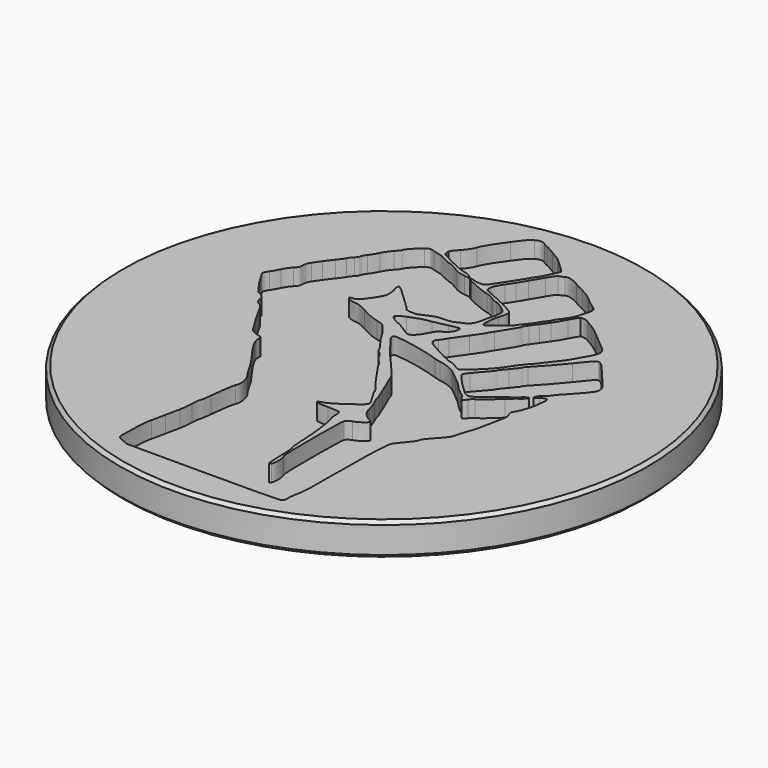
from build123d import *

# Parameters (mm, degrees)
POCKET_DEPTH = 1.25


with BuildPart() as part:
    # Sketch (on DatumPlane) → Revolution (revolve)
    with BuildSketch(Plane.YZ):
        Polygon((0, 0), (0, -2.5), (19.75, -2.5), (20, -2.25), (20, -0.25), (19.75, 0), align=None)
    revolve(axis=Axis((0, 0, 0), (0, 0, 1)))

    # Sketch005 → Pocket (cut)
    with BuildSketch(Plane.XY):
        with BuildLine():
            add(Edge.make_bspline(
                [(-5.984435, -17.202943), (-6.199878, -17.109928), (-6.410944, -16.999036), (-6.453489, -16.956512)],
                knots=[0, 0, 0, 0, 1, 1, 1, 1], degree=3))
            add(Edge.make_bspline(
                [(-6.453489, -16.956512), (-6.578088, -16.831912), (-6.497562, -14.676735), (-6.346851, -14.102441)],
                knots=[0, 0, 0, 0, 1, 1, 1, 1], degree=3))
            add(Edge.make_bspline(
                [(-6.346851, -14.102441), (-6.27701, -13.8363), (-6.171854, -13.350559), (-6.11318, -13.022983)],
                knots=[0, 0, 0, 0, 1, 1, 1, 1], degree=3))
            add(Edge.make_bspline(
                [(-6.11318, -13.022983), (-6.054506, -12.695425), (-5.955975, -12.209675), (-5.894227, -11.943526)],
                knots=[0, 0, 0, 0, 1, 1, 1, 1], degree=3))
            add(Edge.make_bspline(
                [(-5.894227, -11.943526), (-5.83248, -11.677384), (-5.781261, -11.23131), (-5.780406, -10.952248)],
                knots=[0, 0, 0, 0, 1, 1, 1, 1], degree=3))
            add(Edge.make_bspline(
                [(-5.780406, -10.952248), (-5.779551, -10.673178), (-5.746247, -10.383923), (-5.706394, -10.309459)],
                knots=[0, 0, 0, 0, 1, 1, 1, 1], degree=3))
            add(Edge.make_bspline(
                [(-5.706394, -10.309459), (-5.666541, -10.234995), (-5.601014, -9.843581), (-5.560776, -9.439636)],
                knots=[0, 0, 0, 0, 1, 1, 1, 1], degree=3))
            add(Edge.make_bspline(
                [(-5.560776, -9.439636), (-5.455404, -8.381726), (-5.338289, -7.627346), (-5.255375, -7.472448)],
                knots=[0, 0, 0, 0, 1, 1, 1, 1], degree=3))
            add(Edge.make_bspline(
                [(-5.255375, -7.472448), (-5.068748, -7.123736), (-5.249017, -6.309721), (-5.602068, -5.906919)],
                knots=[0, 0, 0, 0, 1, 1, 1, 1], degree=3))
            add(Edge.make_bspline(
                [(-5.602068, -5.906919), (-5.659074, -5.841883), (-5.797546, -5.619078), (-5.909785, -5.411789)],
                knots=[0, 0, 0, 0, 1, 1, 1, 1], degree=3))
            add(Edge.make_bspline(
                [(-5.909785, -5.411789), (-6.195818, -4.883553), (-6.519215, -4.379998), (-6.802044, -4.022578)],
                knots=[0, 0, 0, 0, 1, 1, 1, 1], degree=3))
            add(Edge.make_bspline(
                [(-6.802044, -4.022578), (-7.19475, -3.526262), (-7.711195, -2.723707), (-7.827696, -2.428643)],
                knots=[0, 0, 0, 0, 1, 1, 1, 1], degree=3))
            add(Edge.make_bspline(
                [(-7.827696, -2.428643), (-7.887348, -2.27759), (-7.928137, -2.055716), (-7.918336, -1.935587)],
                knots=[0, 0, 0, 0, 1, 1, 1, 1], degree=3))
            add(Edge.make_bspline(
                [(-7.918336, -1.935587), (-7.903011, -1.747729), (-7.931763, -1.71023), (-8.123852, -1.667541)],
                knots=[0, 0, 0, 0, 1, 1, 1, 1], degree=3))
            add(Edge.make_bspline(
                [(-8.123852, -1.667541), (-8.610982, -1.55929), (-8.878952, -1.392552), (-9.010185, -1.116065)],
                knots=[0, 0, 0, 0, 1, 1, 1, 1], degree=3))
            add(Edge.make_bspline(
                [(-9.010185, -1.116065), (-9.081847, -0.965045), (-9.246748, -0.691292), (-9.376627, -0.507735)],
                knots=[0, 0, 0, 0, 1, 1, 1, 1], degree=3))
            add(Edge.make_bspline(
                [(-9.376627, -0.507735), (-9.506509, -0.324165), (-9.797788, 0.184458), (-10.023903, 0.622481)],
                knots=[0, 0, 0, 0, 1, 1, 1, 1], degree=3))
            add(Edge.make_bspline(
                [(-10.023903, 0.622481), (-10.309281, 1.175312), (-10.494227, 1.447303), (-10.62855, 1.511692)],
                knots=[0, 0, 0, 0, 1, 1, 1, 1], degree=3))
            add(Edge.make_bspline(
                [(-10.62855, 1.511692), (-10.899119, 1.641372), (-11.007759, 1.792976), (-11.058615, 2.111852)],
                knots=[0, 0, 0, 0, 1, 1, 1, 1], degree=3))
            add(Edge.make_bspline(
                [(-11.058615, 2.111852), (-11.092838, 2.326406), (-11.1556, 2.41368), (-11.343154, 2.50755)],
                knots=[0, 0, 0, 0, 1, 1, 1, 1], degree=3))
            add(Edge.make_bspline(
                [(-11.343154, 2.50755), (-11.4755, 2.573785), (-11.632798, 2.668654), (-11.692704, 2.718374)],
                knots=[0, 0, 0, 0, 1, 1, 1, 1], degree=3))
            add(Edge.make_bspline(
                [(-11.692704, 2.718374), (-11.907787, 2.896877), (-13, 4.590735), (-13, 4.74576)],
                knots=[0, 0, 0, 0, 1, 1, 1, 1], degree=3))
            add(Edge.make_bspline(
                [(-13, 4.74576), (-13, 4.832899), (-12.914173, 5.016723), (-12.809271, 5.154251)],
                knots=[0, 0, 0, 0, 1, 1, 1, 1], degree=3))
            add(Edge.make_bspline(
                [(-12.809271, 5.154251), (-12.704369, 5.291784), (-12.537864, 5.580548), (-12.439253, 5.79594)],
                knots=[0, 0, 0, 0, 1, 1, 1, 1], degree=3))
            add(Edge.make_bspline(
                [(-12.439253, 5.79594), (-12.340641, 6.011332), (-12.141717, 6.302162), (-11.997208, 6.442243)],
                knots=[0, 0, 0, 0, 1, 1, 1, 1], degree=3))
            add(Edge.make_bspline(
                [(-11.997208, 6.442243), (-11.779488, 6.653266), (-11.734441, 6.749964), (-11.734441, 7.006335)],
                knots=[0, 0, 0, 0, 1, 1, 1, 1], degree=3))
            add(Edge.make_bspline(
                [(-11.734441, 7.006335), (-11.734441, 7.215495), (-11.675627, 7.397672), (-11.55289, 7.568691)],
                knots=[0, 0, 0, 0, 1, 1, 1, 1], degree=3))
            add(Edge.make_bspline(
                [(-11.55289, 7.568691), (-11.453038, 7.707815), (-11.27716, 7.96789), (-11.162052, 8.146625)],
                knots=[0, 0, 0, 0, 1, 1, 1, 1], degree=3))
            add(Edge.make_bspline(
                [(-11.162052, 8.146625), (-11.046943, 8.325369), (-10.831623, 8.610133), (-10.683558, 8.779424)],
                knots=[0, 0, 0, 0, 1, 1, 1, 1], degree=3))
            add(Edge.make_bspline(
                [(-10.683558, 8.779424), (-10.535497, 8.948711), (-10.362803, 9.18772), (-10.299794, 9.310538)],
                knots=[0, 0, 0, 0, 1, 1, 1, 1], degree=3))
            add(Edge.make_bspline(
                [(-10.299794, 9.310538), (-10.236785, 9.433372), (-10.0983, 9.615088), (-9.992047, 9.714351)],
                knots=[0, 0, 0, 0, 1, 1, 1, 1], degree=3))
            add(Edge.make_bspline(
                [(-9.992047, 9.714351), (-9.885795, 9.813614), (-9.798863, 9.951384), (-9.798863, 10.020506)],
                knots=[0, 0, 0, 0, 1, 1, 1, 1], degree=3))
            add(Edge.make_bspline(
                [(-9.798863, 10.020506), (-9.798863, 10.089628), (-9.698991, 10.271856), (-9.576922, 10.425462)],
                knots=[0, 0, 0, 0, 1, 1, 1, 1], degree=3))
            add(Edge.make_bspline(
                [(-9.576922, 10.425462), (-9.454854, 10.579065), (-9.272952, 10.87682), (-9.17269, 11.08709)],
                knots=[0, 0, 0, 0, 1, 1, 1, 1], degree=3))
            add(Edge.make_bspline(
                [(-9.17269, 11.08709), (-9.072432, 11.297385), (-8.854055, 11.614648), (-8.687423, 11.792067)],
                knots=[0, 0, 0, 0, 1, 1, 1, 1], degree=3))
            add(Edge.make_bspline(
                [(-8.687423, 11.792067), (-8.520774, 11.969516), (-8.384426, 12.142384), (-8.384426, 12.176221)],
                knots=[0, 0, 0, 0, 1, 1, 1, 1], degree=3))
            add(Edge.make_bspline(
                [(-8.384426, 12.176221), (-8.384426, 12.30891), (-7.768984, 13.006631), (-7.487764, 13.192686)],
                knots=[0, 0, 0, 0, 1, 1, 1, 1], degree=3))
            add(Edge.make_bspline(
                [(-7.487764, 13.192686), (-7.191084, 13.38902), (-7.189585, 13.389185), (-6.811108, 13.266943)],
                knots=[0, 0, 0, 0, 1, 1, 1, 1], degree=3))
            add(Edge.make_bspline(
                [(-6.811108, 13.266943), (-6.602472, 13.199561), (-6.379774, 13.144431), (-6.316231, 13.144431)],
                knots=[0, 0, 0, 0, 1, 1, 1, 1], degree=3))
            add(Edge.make_bspline(
                [(-6.316231, 13.144431), (-6.252681, 13.144431), (-5.987369, 13.02718), (-5.726655, 12.883873)],
                knots=[0, 0, 0, 0, 1, 1, 1, 1], degree=3))
            add(Edge.make_bspline(
                [(-5.726655, 12.883873), (-5.465941, 12.740566), (-5.200325, 12.623316), (-5.136401, 12.623316)],
                knots=[0, 0, 0, 0, 1, 1, 1, 1], degree=3))
            add(Edge.make_bspline(
                [(-5.136401, 12.623316), (-5.016708, 12.623316), (-4.79674, 12.51476), (-4.215524, 12.168867)],
                knots=[0, 0, 0, 0, 1, 1, 1, 1], degree=3))
            add(Edge.make_bspline(
                [(-4.215524, 12.168867), (-4.003036, 12.042409), (-3.717176, 11.952019), (-3.433839, 11.921709)],
                knots=[0, 0, 0, 0, 1, 1, 1, 1], degree=3))
            add(Edge.make_bspline(
                [(-3.433839, 11.921709), (-2.98718, 11.873918)],
                knots=[0, 0, 10.611221, 10.611221], degree=1))
            add(Edge.make_bspline(
                [(-2.98718, 11.873918), (-3.183417, 12.051634)],
                knots=[0, 0, 6.253884, 6.253884], degree=1))
            add(Edge.make_bspline(
                [(-3.183417, 12.051634), (-3.291345, 12.149377), (-3.519437, 12.251701), (-3.690274, 12.279023)],
                knots=[0, 0, 0, 0, 1, 1, 1, 1], degree=3))
            add(Edge.make_bspline(
                [(-3.690274, 12.279023), (-3.861122, 12.306342), (-4.187902, 12.428485), (-4.41646, 12.550452)],
                knots=[0, 0, 0, 0, 1, 1, 1, 1], degree=3))
            add(Edge.make_bspline(
                [(-4.41646, 12.550452), (-4.645021, 12.672418), (-4.876919, 12.772211), (-4.931783, 12.772211)],
                knots=[0, 0, 0, 0, 1, 1, 1, 1], degree=3))
            add(Edge.make_bspline(
                [(-4.931783, 12.772211), (-4.986643, 12.772211), (-5.21482, 12.889461), (-5.438852, 13.032768)],
                knots=[0, 0, 0, 0, 1, 1, 1, 1], degree=3))
            add(Edge.make_bspline(
                [(-5.438852, 13.032768), (-5.662876, 13.176075), (-5.880092, 13.293325), (-5.921579, 13.293325)],
                knots=[0, 0, 0, 0, 1, 1, 1, 1], degree=3))
            add(Edge.make_bspline(
                [(-5.921579, 13.293325), (-6.043135, 13.293325), (-6.167358, 13.590675), (-6.121739, 13.772454)],
                knots=[0, 0, 0, 0, 1, 1, 1, 1], degree=3))
            add(Edge.make_bspline(
                [(-6.121739, 13.772454), (-6.098623, 13.864559), (-5.89849, 14.131555), (-5.676985, 14.365798)],
                knots=[0, 0, 0, 0, 1, 1, 1, 1], degree=3))
            add(Edge.make_bspline(
                [(-5.676985, 14.365798), (-5.408406, 14.649821), (-5.222833, 14.932684), (-5.119879, 15.215005)],
                knots=[0, 0, 0, 0, 1, 1, 1, 1], degree=3))
            add(Edge.make_bspline(
                [(-5.119879, 15.215005), (-4.966746, 15.634884), (-4.764905, 15.963881), (-4.010026, 17.023993)],
                knots=[0, 0, 0, 0, 1, 1, 1, 1], degree=3))
            add(Edge.make_bspline(
                [(-4.010026, 17.023993), (-3.535808, 17.689938), (-3.353605, 17.89081), (-3.061632, 18.069499)],
                knots=[0, 0, 0, 0, 1, 1, 1, 1], degree=3))
            add(Edge.make_bspline(
                [(-3.061632, 18.069499), (-2.776166, 18.244196), (-2.49627, 18.243692), (-2.271396, 18.068077)],
                knots=[0, 0, 0, 0, 1, 1, 1, 1], degree=3))
            add(Edge.make_bspline(
                [(-2.271396, 18.068077), (-2.17375, 17.991817), (-2.01218, 17.903815), (-1.912358, 17.872505)],
                knots=[0, 0, 0, 0, 1, 1, 1, 1], degree=3))
            add(Edge.make_bspline(
                [(-1.912358, 17.872505), (-1.812536, 17.841198), (-1.502313, 17.669089), (-1.22296, 17.49004)],
                knots=[0, 0, 0, 0, 1, 1, 1, 1], degree=3))
            add(Edge.make_bspline(
                [(-1.22296, 17.49004), (-0.943623, 17.310992), (-0.688671, 17.164497), (-0.656371, 17.164497)],
                knots=[0, 0, 0, 0, 1, 1, 1, 1], degree=3))
            add(Edge.make_bspline(
                [(-0.656371, 17.164497), (-0.624093, 17.164497), (-0.463542, 17.038869), (-0.299598, 16.885326)],
                knots=[0, 0, 0, 0, 1, 1, 1, 1], degree=3))
            add(Edge.make_bspline(
                [(-0.299598, 16.885326), (-0.135649, 16.731783), (0.155866, 16.46195), (0.348187, 16.285674)],
                knots=[0, 0, 0, 0, 1, 1, 1, 1], degree=3))
            add(Edge.make_bspline(
                [(0.348187, 16.285674), (0.54052, 16.109402), (0.697881, 15.936864), (0.697881, 15.902248)],
                knots=[0, 0, 0, 0, 1, 1, 1, 1], degree=3))
            add(Edge.make_bspline(
                [(0.697881, 15.902248), (0.697881, 15.781954), (0.116983, 14.576749), (0.034391, 14.525738)],
                knots=[0, 0, 0, 0, 1, 1, 1, 1], degree=3))
            add(Edge.make_bspline(
                [(0.034391, 14.525738), (-0.011312, 14.497492), (-0.119482, 14.334281), (-0.205995, 14.163043)],
                knots=[0, 0, 0, 0, 1, 1, 1, 1], degree=3))
            add(Edge.make_bspline(
                [(-0.205995, 14.163043), (-0.292503, 13.991804), (-0.585153, 13.521185), (-0.856319, 13.117198)],
                knots=[0, 0, 0, 0, 1, 1, 1, 1], degree=3))
            add(Edge.make_bspline(
                [(-0.856319, 13.117198), (-1.12749, 12.713219), (-1.421088, 12.265197), (-1.508761, 12.121602)],
                knots=[0, 0, 0, 0, 1, 1, 1, 1], degree=3))
            add(Edge.make_bspline(
                [(-1.508761, 12.121602), (-1.596425, 11.977999), (-1.713675, 11.831661), (-1.769318, 11.796406)],
                knots=[0, 0, 0, 0, 1, 1, 1, 1], degree=3))
            add(Edge.make_bspline(
                [(-1.769318, 11.796406), (-1.926222, 11.696991), (-2.406223, 11.718581), (-2.691761, 11.837894)],
                knots=[0, 0, 0, 0, 1, 1, 1, 1], degree=3))
            add(Edge.make_bspline(
                [(-2.691761, 11.837894), (-3.017652, 11.97406), (-3.028036, 11.864821), (-2.707982, 11.667295)],
                knots=[0, 0, 0, 0, 1, 1, 1, 1], degree=3))
            add(Edge.make_bspline(
                [(-2.707982, 11.667295), (-2.387218, 11.469332), (-1.267929, 11.021331), (-0.93993, 10.959651)],
                knots=[0, 0, 0, 0, 1, 1, 1, 1], degree=3))
            add(Edge.make_bspline(
                [(-0.93993, 10.959651), (-0.796623, 10.932691), (-0.528619, 10.810393), (-0.344385, 10.687871)],
                knots=[0, 0, 0, 0, 1, 1, 1, 1], degree=3))
            add(Edge.make_bspline(
                [(-0.344385, 10.687871), (-0.160133, 10.565355), (0.059704, 10.464969), (0.144142, 10.464792)],
                knots=[0, 0, 0, 0, 1, 1, 1, 1], degree=3))
            add(Edge.make_bspline(
                [(0.144142, 10.464792), (0.22858, 10.464622), (0.504958, 10.310432), (0.758314, 10.122163)],
                knots=[0, 0, 0, 0, 1, 1, 1, 1], degree=3))
            add(Edge.make_bspline(
                [(0.758314, 10.122163), (1.215133, 9.782704), (1.218943, 9.776765), (1.218943, 9.410031)],
                knots=[0, 0, 0, 0, 1, 1, 1, 1], degree=3))
            add(Edge.make_bspline(
                [(1.218943, 9.410031), (1.218943, 9.206637), (1.182408, 8.971966), (1.137756, 8.888527)],
                knots=[0, 0, 0, 0, 1, 1, 1, 1], degree=3))
            add(Edge.make_bspline(
                [(1.137756, 8.888527), (1.093104, 8.805088), (1.029061, 8.542211), (0.995436, 8.304327)],
                knots=[0, 0, 0, 0, 1, 1, 1, 1], degree=3))
            add(Edge.make_bspline(
                [(0.995436, 8.304327), (0.901037, 7.636519), (0.733113, 7.350218), (0.33258, 7.174366)],
                knots=[0, 0, 0, 0, 1, 1, 1, 1], degree=3))
            add(Edge.make_bspline(
                [(0.33258, 7.174366), (0.144485, 7.091769), (-0.104257, 6.977495), (-0.220166, 6.920421)],
                knots=[0, 0, 0, 0, 1, 1, 1, 1], degree=3))
            add(Edge.make_bspline(
                [(-0.220166, 6.920421), (-0.338631, 6.86209), (-0.655776, 6.816649), (-0.944362, 6.816649)],
                knots=[0, 0, 0, 0, 1, 1, 1, 1], degree=3))
            add(Edge.make_bspline(
                [(-0.944362, 6.816649), (-1.378448, 6.816649), (-1.546469, 6.775136), (-2.031567, 6.548019)],
                knots=[0, 0, 0, 0, 1, 1, 1, 1], degree=3))
            add(Edge.make_bspline(
                [(-2.031567, 6.548019), (-2.52657, 6.316265), (-2.660894, 6.283994), (-3.010059, 6.31295)],
                knots=[0, 0, 0, 0, 1, 1, 1, 1], degree=3))
            add(Edge.make_bspline(
                [(-3.010059, 6.31295), (-3.308509, 6.3377), (-3.43534, 6.383808), (-3.493083, 6.488523)],
                knots=[0, 0, 0, 0, 1, 1, 1, 1], degree=3))
            add(Edge.make_bspline(
                [(-3.493083, 6.488523), (-3.536144, 6.566628), (-3.670277, 6.714287), (-3.791156, 6.816649)],
                knots=[0, 0, 0, 0, 1, 1, 1, 1], degree=3))
            add(Edge.make_bspline(
                [(-3.791156, 6.816649), (-3.912039, 6.919011), (-4.346104, 7.330745), (-4.755721, 7.731557)],
                knots=[0, 0, 0, 0, 1, 1, 1, 1], degree=3))
            add(Edge.make_bspline(
                [(-4.755721, 7.731557), (-5.165347, 8.132403), (-5.537999, 8.447752), (-5.583846, 8.432301)],
                knots=[0, 0, 0, 0, 1, 1, 1, 1], degree=3))
            add(Edge.make_bspline(
                [(-5.583846, 8.432301), (-5.675438, 8.401449), (-5.653535, 8.043143), (-5.547953, 7.84518)],
                knots=[0, 0, 0, 0, 1, 1, 1, 1], degree=3))
            add(Edge.make_bspline(
                [(-5.547953, 7.84518), (-5.511176, 7.776219), (-5.481087, 7.559421), (-5.481087, 7.363426)],
                knots=[0, 0, 0, 0, 1, 1, 1, 1], degree=3))
            add(Edge.make_bspline(
                [(-5.481087, 7.363426), (-5.481087, 7.054046), (-5.537547, 6.92189), (-5.909162, 6.361439)],
                knots=[0, 0, 0, 0, 1, 1, 1, 1], degree=3))
            add(Edge.make_bspline(
                [(-5.909162, 6.361439), (-6.325709, 5.733212), (-6.530446, 5.551094), (-6.820217, 5.551094)],
                knots=[0, 0, 0, 0, 1, 1, 1, 1], degree=3))
            add(Edge.make_bspline(
                [(-6.820217, 5.551094), (-6.897764, 5.551094), (-6.98235, 5.516892), (-7.008186, 5.475089)],
                knots=[0, 0, 0, 0, 1, 1, 1, 1], degree=3))
            add(Edge.make_bspline(
                [(-7.008186, 5.475089), (-7.072211, 5.371495), (-6.588582, 5.17887), (-6.264474, 5.17887)],
                knots=[0, 0, 0, 0, 1, 1, 1, 1], degree=3))
            add(Edge.make_bspline(
                [(-6.264474, 5.17887), (-6.090979, 5.17887), (-5.778318, 5.058029), (-5.350116, 4.825497)],
                knots=[0, 0, 0, 0, 1, 1, 1, 1], degree=3))
            add(Edge.make_bspline(
                [(-5.350116, 4.825497), (-4.651193, 4.445936), (-4.34889, 4.316269), (-3.880514, 4.19528)],
                knots=[0, 0, 0, 0, 1, 1, 1, 1], degree=3))
            add(Edge.make_bspline(
                [(-3.880514, 4.19528), (-3.716735, 4.152964), (-3.511859, 4.091729), (-3.425219, 4.059204)],
                knots=[0, 0, 0, 0, 1, 1, 1, 1], degree=3))
            add(Edge.make_bspline(
                [(-3.425219, 4.059204), (-3.246353, 3.992042), (-2.660637, 3.251018), (-2.431656, 2.8022)],
                knots=[0, 0, 0, 0, 1, 1, 1, 1], degree=3))
            add(Edge.make_bspline(
                [(-2.431656, 2.8022), (-2.347696, 2.637625), (-2.186114, 2.393163), (-2.072593, 2.258937)],
                knots=[0, 0, 0, 0, 1, 1, 1, 1], degree=3))
            add(Edge.make_bspline(
                [(-2.072593, 2.258937), (-1.785391, 1.919406), (-1.461004, 1.427171), (-1.461004, 1.330863)],
                knots=[0, 0, 0, 0, 1, 1, 1, 1], degree=3))
            add(Edge.make_bspline(
                [(-1.461004, 1.330863), (-1.461004, 1.286591), (-1.377683, 1.195777), (-1.275846, 1.129052)],
                knots=[0, 0, 0, 0, 1, 1, 1, 1], degree=3))
            add(Edge.make_bspline(
                [(-1.275846, 1.129052), (-1.174009, 1.062326), (-1.026194, 0.882595), (-0.947365, 0.729653)],
                knots=[0, 0, 0, 0, 1, 1, 1, 1], degree=3))
            add(Edge.make_bspline(
                [(-0.947365, 0.729653), (-0.868536, 0.576707), (-0.683853, 0.336123), (-0.53696, 0.195026)],
                knots=[0, 0, 0, 0, 1, 1, 1, 1], degree=3))
            add(Edge.make_bspline(
                [(-0.53696, 0.195026), (-0.390063, 0.053925), (-0.269879, -0.099809), (-0.269879, -0.1466)],
                knots=[0, 0, 0, 0, 1, 1, 1, 1], degree=3))
            add(Edge.make_bspline(
                [(-0.269879, -0.1466), (-0.269879, -0.193391), (-0.18473, -0.345948), (-0.080658, -0.48561)],
                knots=[0, 0, 0, 0, 1, 1, 1, 1], degree=3))
            add(Edge.make_bspline(
                [(-0.080658, -0.48561), (0.023415, -0.625276), (0.24224, -0.940566), (0.405625, -1.186226)],
                knots=[0, 0, 0, 0, 1, 1, 1, 1], degree=3))
            add(Edge.make_bspline(
                [(0.405625, -1.186226), (0.857026, -1.864956), (1.19764, -2.333332), (1.443385, -2.61324)],
                knots=[0, 0, 0, 0, 1, 1, 1, 1], degree=3))
            add(Edge.make_bspline(
                [(1.443385, -2.61324), (1.565652, -2.752496), (1.665686, -2.91084), (1.665686, -2.965119)],
                knots=[0, 0, 0, 0, 1, 1, 1, 1], degree=3))
            add(Edge.make_bspline(
                [(1.665686, -2.965119), (1.665686, -3.019399), (1.754492, -3.194109), (1.863039, -3.353367)],
                knots=[0, 0, 0, 0, 1, 1, 1, 1], degree=3))
            add(Edge.make_bspline(
                [(1.863039, -3.353367), (2.096127, -3.695357), (2.410155, -4.272339), (2.410155, -4.358656)],
                knots=[0, 0, 0, 0, 1, 1, 1, 1], degree=3))
            add(Edge.make_bspline(
                [(2.410155, -4.358656), (2.410155, -4.467284), (1.950966, -4.945735), (1.846699, -4.945735)],
                knots=[0, 0, 0, 0, 1, 1, 1, 1], degree=3))
            add(Edge.make_bspline(
                [(1.846699, -4.945735), (1.79095, -4.945735), (1.63529, -5.04096), (1.500797, -5.157343)],
                knots=[0, 0, 0, 0, 1, 1, 1, 1], degree=3))
            add(Edge.make_bspline(
                [(1.500797, -5.157343), (1.102551, -5.501961), (0.433193, -5.898895), (0.098125, -5.989108)],
                knots=[0, 0, 0, 0, 1, 1, 1, 1], degree=3))
            add(Edge.make_bspline(
                [(0.098125, -5.989108), (-0.437942, -6.13346), (-0.14826, -6.248264), (0.757593, -6.250453)],
                knots=[0, 0, 0, 0, 1, 1, 1, 1], degree=3))
            add(Edge.make_bspline(
                [(0.757593, -6.250453), (1.195659, -6.251511), (1.59592, -6.278612), (1.647101, -6.31068)],
                knots=[0, 0, 0, 0, 1, 1, 1, 1], degree=3))
            add(Edge.make_bspline(
                [(1.647101, -6.31068), (1.701389, -6.344697), (1.740158, -6.524256), (1.740158, -6.741718)],
                knots=[0, 0, 0, 0, 1, 1, 1, 1], degree=3))
            add(Edge.make_bspline(
                [(1.740158, -6.741718), (1.740158, -6.946717), (1.771852, -7.173645), (1.810588, -7.246035)],
                knots=[0, 0, 0, 0, 1, 1, 1, 1], degree=3))
            add(Edge.make_bspline(
                [(1.810588, -7.246035), (1.992791, -7.586484), (2.236716, -9.567299), (2.265291, -10.93856)],
                knots=[0, 0, 0, 0, 1, 1, 1, 1], degree=3))
            add(Edge.make_bspline(
                [(2.265291, -10.93856), (2.272117, -11.266119), (2.315879, -11.581138), (2.362539, -11.638626)],
                knots=[0, 0, 0, 0, 1, 1, 1, 1], degree=3))
            add(Edge.make_bspline(
                [(2.362539, -11.638626), (2.41604, -11.704523), (2.449483, -12.116951), (2.453094, -12.755295)],
                knots=[0, 0, 0, 0, 1, 1, 1, 1], degree=3))
            add(Edge.make_bspline(
                [(2.453094, -12.755295), (2.456244, -13.311978), (2.485612, -13.849104), (2.518363, -13.948883)],
                knots=[0, 0, 0, 0, 1, 1, 1, 1], degree=3))
            add(Edge.make_bspline(
                [(2.518363, -13.948883), (2.575391, -14.122628), (2.582232, -14.124389), (2.68014, -13.990489)],
                knots=[0, 0, 0, 0, 1, 1, 1, 1], degree=3))
            add(Edge.make_bspline(
                [(2.68014, -13.990489), (2.81545, -13.805441), (2.810358, -13.196866), (2.670707, -12.862644)],
                knots=[0, 0, 0, 0, 1, 1, 1, 1], degree=3))
            add(Edge.make_bspline(
                [(2.670707, -12.862644), (2.578496, -12.641956), (2.55904, -12.130574), (2.55904, -9.92797)],
                knots=[0, 0, 0, 0, 1, 1, 1, 1], degree=3))
            add(Edge.make_bspline(
                [(2.55904, -9.92797), (2.55904, -8.090788), (2.585439, -7.202593), (2.643855, -7.074407)],
                knots=[0, 0, 0, 0, 1, 1, 1, 1], degree=3))
            add(Edge.make_bspline(
                [(2.643855, -7.074407), (2.698592, -6.954278), (2.843194, -6.849232), (3.051571, -6.778231)],
                knots=[0, 0, 0, 0, 1, 1, 1, 1], degree=3))
            add(Edge.make_bspline(
                [(3.051571, -6.778231), (3.431644, -6.648729), (3.899042, -6.311209), (3.899042, -6.16626)],
                knots=[0, 0, 0, 0, 1, 1, 1, 1], degree=3))
            add(Edge.make_bspline(
                [(3.899042, -6.16626), (3.899042, -6.110253), (3.790165, -6.017721), (3.657095, -5.960639)],
                knots=[0, 0, 0, 0, 1, 1, 1, 1], degree=3))
            add(Edge.make_bspline(
                [(3.657095, -5.960639), (3.235281, -5.779689), (2.926125, -5.382069), (2.807295, -4.867634)],
                knots=[0, 0, 0, 0, 1, 1, 1, 1], degree=3))
            add(Edge.make_bspline(
                [(2.807295, -4.867634), (2.748477, -4.613037), (2.618307, -4.242837), (2.518032, -4.044928)],
                knots=[0, 0, 0, 0, 1, 1, 1, 1], degree=3))
            add(Edge.make_bspline(
                [(2.518032, -4.044928), (2.417752, -3.847037), (2.335706, -3.636479), (2.335706, -3.577018)],
                knots=[0, 0, 0, 0, 1, 1, 1, 1], degree=3))
            add(Edge.make_bspline(
                [(2.335706, -3.577018), (2.335706, -3.517557), (2.288619, -3.374068), (2.231067, -3.258151)],
                knots=[0, 0, 0, 0, 1, 1, 1, 1], degree=3))
            add(Edge.make_bspline(
                [(2.231067, -3.258151), (2.173514, -3.142234), (2.054909, -2.846391), (1.967491, -2.600714)],
                knots=[0, 0, 0, 0, 1, 1, 1, 1], degree=3))
            add(Edge.make_bspline(
                [(1.967491, -2.600714), (1.880077, -2.355045), (1.711218, -1.953056), (1.592244, -1.707354)],
                knots=[0, 0, 0, 0, 1, 1, 1, 1], degree=3))
            add(Edge.make_bspline(
                [(1.592244, -1.707354), (1.473275, -1.461685), (1.355304, -1.174758), (1.330091, -1.069729)],
                knots=[0, 0, 0, 0, 1, 1, 1, 1], degree=3))
            add(Edge.make_bspline(
                [(1.330091, -1.069729), (1.276712, -0.847407), (0.967539, -0.445016), (0.13955, 0.479798)],
                knots=[0, 0, 0, 0, 1, 1, 1, 1], degree=3))
            add(Edge.make_bspline(
                [(0.13955, 0.479798), (-0.658687, 1.371423), (-1.012636, 1.799751), (-1.249068, 2.160347)],
                knots=[0, 0, 0, 0, 1, 1, 1, 1], degree=3))
            add(Edge.make_bspline(
                [(-1.249068, 2.160347), (-1.357704, 2.326022), (-1.550248, 2.578824), (-1.676973, 2.722152)],
                knots=[0, 0, 0, 0, 1, 1, 1, 1], degree=3))
            add(Edge.make_bspline(
                [(-1.676973, 2.722152), (-1.903791, 2.978692), (-1.96945, 3.196328), (-1.843521, 3.274137)],
                knots=[0, 0, 0, 0, 1, 1, 1, 1], degree=3))
            add(Edge.make_bspline(
                [(-1.843521, 3.274137), (-1.622494, 3.410738), (0.83711, 2.923934), (1.851798, 2.542786)],
                knots=[0, 0, 0, 0, 1, 1, 1, 1], degree=3))
            add(Edge.make_bspline(
                [(1.851798, 2.542786), (2.015577, 2.481259), (2.21658, 2.429019), (2.298457, 2.426695)],
                knots=[0, 0, 0, 0, 1, 1, 1, 1], degree=3))
            add(Edge.make_bspline(
                [(2.298457, 2.426695), (2.608286, 2.417897), (3.407379, 2.116515), (3.639662, 1.920854)],
                knots=[0, 0, 0, 0, 1, 1, 1, 1], degree=3))
            add(Edge.make_bspline(
                [(3.639662, 1.920854), (3.772652, 1.808827), (4.073959, 1.566414), (4.309206, 1.382163)],
                knots=[0, 0, 0, 0, 1, 1, 1, 1], degree=3))
            add(Edge.make_bspline(
                [(4.309206, 1.382163), (4.544461, 1.197911), (4.786726, 0.99234), (4.847559, 0.925344)],
                knots=[0, 0, 0, 0, 1, 1, 1, 1], degree=3))
            add(Edge.make_bspline(
                [(4.847559, 0.925344), (5.284015, 0.444733), (5.686986, 0.076772), (5.889678, -0.026352)],
                knots=[0, 0, 0, 0, 1, 1, 1, 1], degree=3))
            add(Edge.make_bspline(
                [(5.889678, -0.026352), (5.981381, -0.072995), (6.107869, -0.210667), (6.170759, -0.332287)],
                knots=[0, 0, 0, 0, 1, 1, 1, 1], degree=3))
            add(Edge.make_bspline(
                [(6.170759, -0.332287), (6.315289, -0.61178), (6.460941, -0.613109), (6.624403, -0.336427)],
                knots=[0, 0, 0, 0, 1, 1, 1, 1], degree=3))
            add(Edge.make_bspline(
                [(6.624403, -0.336427), (6.694901, -0.217081), (6.838567, -0.080259), (6.943656, -0.032376)],
                knots=[0, 0, 0, 0, 1, 1, 1, 1], degree=3))
            add(Edge.make_bspline(
                [(6.943656, -0.032376), (7.159208, 0.065837), (7.521167, 0.370481), (8.292607, 1.103004)],
                knots=[0, 0, 0, 0, 1, 1, 1, 1], degree=3))
            add(Edge.make_bspline(
                [(8.292607, 1.103004), (8.583679, 1.379381), (8.848656, 1.6055), (8.881422, 1.6055)],
                knots=[0, 0, 0, 0, 1, 1, 1, 1], degree=3))
            add(Edge.make_bspline(
                [(8.881422, 1.6055), (8.957672, 1.6055), (9.333542, 1.979486), (9.333542, 2.055334)],
                knots=[0, 0, 0, 0, 1, 1, 1, 1], degree=3))
            add(Edge.make_bspline(
                [(9.333542, 2.055334), (9.333542, 2.182652), (9.014983, 2.017996), (8.863049, 1.812155)],
                knots=[0, 0, 0, 0, 1, 1, 1, 1], degree=3))
            add(Edge.make_bspline(
                [(8.863049, 1.812155), (8.773781, 1.691204), (8.588378, 1.545222), (8.45104, 1.48775)],
                knots=[0, 0, 0, 0, 1, 1, 1, 1], degree=3))
            add(Edge.make_bspline(
                [(8.45104, 1.48775), (8.195435, 1.380791), (8.152306, 1.348736), (7.151872, 0.522212)],
                knots=[0, 0, 0, 0, 1, 1, 1, 1], degree=3))
            add(Edge.make_bspline(
                [(7.151872, 0.522212), (6.545701, 0.021408), (6.40617, -0.027063), (6.072838, 0.147308)],
                knots=[0, 0, 0, 0, 1, 1, 1, 1], degree=3))
            add(Edge.make_bspline(
                [(6.072838, 0.147308), (5.74652, 0.31803), (4.34568, 1.788275), (4.34568, 1.960021)],
                knots=[0, 0, 0, 0, 1, 1, 1, 1], degree=3))
            add(Edge.make_bspline(
                [(4.34568, 1.960021), (4.34568, 2.044057), (4.46186, 2.241542), (4.603858, 2.398891)],
                knots=[0, 0, 0, 0, 1, 1, 1, 1], degree=3))
            add(Edge.make_bspline(
                [(4.603858, 2.398891), (5.265359, 3.13185), (5.611265, 3.548452), (5.611265, 3.612291)],
                knots=[0, 0, 0, 0, 1, 1, 1, 1], degree=3))
            add(Edge.make_bspline(
                [(5.611265, 3.612291), (5.611265, 3.650592), (5.829019, 3.930612), (6.095177, 4.234549)],
                knots=[0, 0, 0, 0, 1, 1, 1, 1], degree=3))
            add(Edge.make_bspline(
                [(6.095177, 4.234549), (6.361318, 4.538493), (6.579089, 4.823363), (6.579089, 4.867559)],
                knots=[0, 0, 0, 0, 1, 1, 1, 1], degree=3))
            add(Edge.make_bspline(
                [(6.579089, 4.867559), (6.579089, 4.91178), (6.674454, 5.041786), (6.79101, 5.156459)],
                knots=[0, 0, 0, 0, 1, 1, 1, 1], degree=3))
            add(Edge.make_bspline(
                [(6.79101, 5.156459), (7.211346, 5.570009), (8.041198, 6.509051), (8.551907, 7.149046)],
                knots=[0, 0, 0, 0, 1, 1, 1, 1], degree=3))
            add(Edge.make_bspline(
                [(8.551907, 7.149046), (9.526378, 8.370236), (9.500259, 8.347079), (9.775976, 8.232864)],
                knots=[0, 0, 0, 0, 1, 1, 1, 1], degree=3))
            add(Edge.make_bspline(
                [(9.775976, 8.232864), (9.912602, 8.176273), (10.146756, 7.956491), (10.319366, 7.722832)],
                knots=[0, 0, 0, 0, 1, 1, 1, 1], degree=3))
            add(Edge.make_bspline(
                [(10.319366, 7.722832), (10.486194, 7.497005), (10.91669, 6.988899), (11.276015, 6.59376)],
                knots=[0, 0, 0, 0, 1, 1, 1, 1], degree=3))
            add(Edge.make_bspline(
                [(11.276015, 6.59376), (11.900728, 5.906774), (11.98078, 5.760343), (11.950724, 5.359362)],
                knots=[0, 0, 0, 0, 1, 1, 1, 1], degree=3))
            add(Edge.make_bspline(
                [(11.950724, 5.359362), (11.936227, 5.165937), (11.454704, 4.549653), (10.80802, 3.896873)],
                knots=[0, 0, 0, 0, 1, 1, 1, 1], degree=3))
            add(Edge.make_bspline(
                [(10.80802, 3.896873), (10.535419, 3.621702), (10.253961, 3.297687), (10.182587, 3.176867)],
                knots=[0, 0, 0, 0, 1, 1, 1, 1], degree=3))
            add(Edge.make_bspline(
                [(10.182587, 3.176867), (10.111209, 3.056031), (9.971869, 2.91385), (9.872949, 2.860912)],
                knots=[0, 0, 0, 0, 1, 1, 1, 1], degree=3))
            add(Edge.make_bspline(
                [(9.872949, 2.860912), (9.689552, 2.762763), (9.438439, 2.369168), (9.512163, 2.295424)],
                knots=[0, 0, 0, 0, 1, 1, 1, 1], degree=3))
            add(Edge.make_bspline(
                [(9.512163, 2.295424), (9.53454, 2.273047), (9.671798, 2.345466), (9.817179, 2.456354)],
                knots=[0, 0, 0, 0, 1, 1, 1, 1], degree=3))
            add(Edge.make_bspline(
                [(9.817179, 2.456354), (10.183476, 2.735741), (10.342705, 2.690102), (10.323866, 2.311096)],
                knots=[0, 0, 0, 0, 1, 1, 1, 1], degree=3))
            add(Edge.make_bspline(
                [(10.323866, 2.311096), (10.283171, 1.490845), (10.046981, 0.628219), (9.731073, 0.146084)],
                knots=[0, 0, 0, 0, 1, 1, 1, 1], degree=3))
            add(Edge.make_bspline(
                [(9.731073, 0.146084), (9.621345, -0.021382), (9.621002, -0.063521), (9.727187, -0.333849)],
                knots=[0, 0, 0, 0, 1, 1, 1, 1], degree=3))
            add(Edge.make_bspline(
                [(9.727187, -0.333849), (9.834781, -0.607762), (9.832681, -0.682218), (9.699451, -1.317633)],
                knots=[0, 0, 0, 0, 1, 1, 1, 1], degree=3))
            add(Edge.make_bspline(
                [(9.699451, -1.317633), (9.620173, -1.695733), (9.523581, -2.183053), (9.484799, -2.40052)],
                knots=[0, 0, 0, 0, 1, 1, 1, 1], degree=3))
            add(Edge.make_bspline(
                [(9.484799, -2.40052), (9.409916, -2.820496), (9.325381, -3.116419), (9.108638, -3.717298)],
                knots=[0, 0, 0, 0, 1, 1, 1, 1], degree=3))
            add(Edge.make_bspline(
                [(9.108638, -3.717298), (9.034796, -3.922022), (8.952792, -4.21717), (8.926414, -4.373126)],
                knots=[0, 0, 0, 0, 1, 1, 1, 1], degree=3))
            add(Edge.make_bspline(
                [(8.926414, -4.373126), (8.879098, -4.65292), (8.75325, -4.824484), (7.977174, -5.667002)],
                knots=[0, 0, 0, 0, 1, 1, 1, 1], degree=3))
            add(Edge.make_bspline(
                [(7.977174, -5.667002), (7.774821, -5.886695), (7.621286, -6.124795), (7.621286, -6.218944)],
                knots=[0, 0, 0, 0, 1, 1, 1, 1], degree=3))
            add(Edge.make_bspline(
                [(7.621286, -6.218944), (7.621286, -6.315278), (7.439257, -6.589471), (7.185888, -6.874814)],
                knots=[0, 0, 0, 0, 1, 1, 1, 1], degree=3))
            add(Edge.make_bspline(
                [(7.185888, -6.874814), (6.946421, -7.144486), (6.69952, -7.465618), (6.637205, -7.58847)],
                knots=[0, 0, 0, 0, 1, 1, 1, 1], degree=3))
            add(Edge.make_bspline(
                [(6.637205, -7.58847), (6.500621, -7.857731), (6.411611, -10.31825), (6.421758, -13.543923)],
                knots=[0, 0, 0, 0, 1, 1, 1, 1], degree=3))
            add(Edge.make_bspline(
                [(6.421758, -13.543923), (6.42694, -15.190351), (6.405046, -15.705166), (6.317572, -15.993837)],
                knots=[0, 0, 0, 0, 1, 1, 1, 1], degree=3))
            add(Edge.make_bspline(
                [(6.317572, -15.993837), (6.256663, -16.194832), (6.206828, -16.55577), (6.206828, -16.795969)],
                knots=[0, 0, 0, 0, 1, 1, 1, 1], degree=3))
            add(Edge.make_bspline(
                [(6.206828, -16.795969), (6.206828, -17.196218), (6.190897, -17.238691), (6.015871, -17.305239)],
                knots=[0, 0, 0, 0, 1, 1, 1, 1], degree=3))
            add(Edge.make_bspline(
                [(6.015871, -17.305239), (5.897566, -17.350219), (3.652866, -17.376707), (0.116297, -17.374852)],
                knots=[0, 0, 0, 0, 1, 1, 1, 1], degree=3))
            add(Edge.make_bspline(
                [(0.116297, -17.374852), (-5.592353, -17.371859)],
                knots=[0, 0, 134.850019, 134.850019], degree=1))
            add(Edge.make_bspline(
                [(-5.592353, -17.371859), (-5.984071, -17.202746)],
                knots=[0, 0, 10.078697, 10.078697], degree=1))
            add(Edge.make_bspline(
                [(-5.984071, -17.202746), (-5.984435, -17.202943)],
                knots=[0, 0, 0.009772, 0.009772], degree=1))
        make_face()
        with BuildLine():
            add(Edge.make_bspline(
                [(3.303498, 2.573497), (3.119246, 2.69598), (2.895392, 2.79634), (2.806039, 2.796513)],
                knots=[0, 0, 0, 0, 1, 1, 1, 1], degree=3))
            add(Edge.make_bspline(
                [(2.806039, 2.796513), (2.641227, 2.79681), (1.727724, 3.242283), (0.84681, 3.75185)],
                knots=[0, 0, 0, 0, 1, 1, 1, 1], degree=3))
            add(Edge.make_bspline(
                [(0.84681, 3.75185), (0.296307, 4.070298), (0.226881, 4.228227), (0.493928, 4.554617)],
                knots=[0, 0, 0, 0, 1, 1, 1, 1], degree=3))
            add(Edge.make_bspline(
                [(0.493928, 4.554617), (0.590672, 4.672862), (0.756644, 4.92036), (0.862757, 5.104611)],
                knots=[0, 0, 0, 0, 1, 1, 1, 1], degree=3))
            add(Edge.make_bspline(
                [(0.862757, 5.104611), (0.96887, 5.288863), (1.293456, 5.756291), (1.584032, 6.143302)],
                knots=[0, 0, 0, 0, 1, 1, 1, 1], degree=3))
            add(Edge.make_bspline(
                [(1.584032, 6.143302), (1.874621, 6.53033), (2.112394, 6.875203), (2.112394, 6.909662)],
                knots=[0, 0, 0, 0, 1, 1, 1, 1], degree=3))
            add(Edge.make_bspline(
                [(2.112394, 6.909662), (2.112394, 6.944126), (2.25477, 7.186573), (2.428785, 7.448438)],
                knots=[0, 0, 0, 0, 1, 1, 1, 1], degree=3))
            add(Edge.make_bspline(
                [(2.428785, 7.448438), (2.996772, 8.303148), (3.303519, 8.82152), (3.303519, 8.926591)],
                knots=[0, 0, 0, 0, 1, 1, 1, 1], degree=3))
            add(Edge.make_bspline(
                [(3.303519, 8.926591), (3.303519, 8.983327), (3.404535, 9.156859), (3.528, 9.312218)],
                knots=[0, 0, 0, 0, 1, 1, 1, 1], degree=3))
            add(Edge.make_bspline(
                [(3.528, 9.312218), (3.651465, 9.467578), (3.824575, 9.715062), (3.912691, 9.862171)],
                knots=[0, 0, 0, 0, 1, 1, 1, 1], degree=3))
            add(Edge.make_bspline(
                [(3.912691, 9.862171), (4.000804, 10.009292), (4.180153, 10.263944), (4.311243, 10.428083)],
                knots=[0, 0, 0, 0, 1, 1, 1, 1], degree=3))
            add(Edge.make_bspline(
                [(4.311243, 10.428083), (4.442332, 10.592209), (4.689991, 11.002038), (4.861576, 11.338842)],
                knots=[0, 0, 0, 0, 1, 1, 1, 1], degree=3))
            add(Edge.make_bspline(
                [(4.861576, 11.338842), (5.033179, 11.675633), (5.227658, 11.981462), (5.293757, 12.018419)],
                knots=[0, 0, 0, 0, 1, 1, 1, 1], degree=3))
            add(Edge.make_bspline(
                [(5.293757, 12.018419), (5.41337, 12.085357), (5.783469, 12.000621), (5.955723, 11.866857)],
                knots=[0, 0, 0, 0, 1, 1, 1, 1], degree=3))
            add(Edge.make_bspline(
                [(5.955723, 11.866857), (6.001833, 11.83105), (6.210778, 11.70812), (6.420035, 11.59368)],
                knots=[0, 0, 0, 0, 1, 1, 1, 1], degree=3))
            add(Edge.make_bspline(
                [(6.420035, 11.59368), (6.629306, 11.479241), (7.010331, 11.199129), (7.266787, 10.971211)],
                knots=[0, 0, 0, 0, 1, 1, 1, 1], degree=3))
            add(Edge.make_bspline(
                [(7.266787, 10.971211), (7.934976, 10.377317), (8.29083, 10.07802), (8.596858, 9.85251)],
                knots=[0, 0, 0, 0, 1, 1, 1, 1], degree=3))
            add(Edge.make_bspline(
                [(8.596858, 9.85251), (8.988928, 9.563585), (9.086739, 9.279486), (8.932904, 8.8766)],
                knots=[0, 0, 0, 0, 1, 1, 1, 1], degree=3))
            add(Edge.make_bspline(
                [(8.932904, 8.8766), (8.865742, 8.700739), (8.696015, 8.374738), (8.555735, 8.152107)],
                knots=[0, 0, 0, 0, 1, 1, 1, 1], degree=3))
            add(Edge.make_bspline(
                [(8.555735, 8.152107), (8.415455, 7.929506), (8.2495, 7.637207), (8.186944, 7.502502)],
                knots=[0, 0, 0, 0, 1, 1, 1, 1], degree=3))
            add(Edge.make_bspline(
                [(8.186944, 7.502502), (8.124392, 7.367832), (7.909585, 7.066342), (7.709593, 6.832493)],
                knots=[0, 0, 0, 0, 1, 1, 1, 1], degree=3))
            add(Edge.make_bspline(
                [(7.709593, 6.832493), (7.509607, 6.59866), (7.244011, 6.25659), (7.11934, 6.072355)],
                knots=[0, 0, 0, 0, 1, 1, 1, 1], degree=3))
            add(Edge.make_bspline(
                [(7.11934, 6.072355), (6.994694, 5.888104), (6.80167, 5.653603), (6.690418, 5.551232)],
                knots=[0, 0, 0, 0, 1, 1, 1, 1], degree=3))
            add(Edge.make_bspline(
                [(6.690418, 5.551232), (6.494855, 5.371328), (6.029637, 4.748296), (5.723017, 4.255663)],
                knots=[0, 0, 0, 0, 1, 1, 1, 1], degree=3))
            add(Edge.make_bspline(
                [(5.723017, 4.255663), (5.381277, 3.706599), (4.014782, 2.349985), (3.803878, 2.350409)],
                knots=[0, 0, 0, 0, 1, 1, 1, 1], degree=3))
            add(Edge.make_bspline(
                [(3.803878, 2.350409), (3.71295, 2.350578), (3.487804, 2.450942), (3.30354, 2.573425)],
                knots=[0, 0, 0, 0, 1, 1, 1, 1], degree=3))
            add(Edge.make_bspline(
                [(3.30354, 2.573425), (3.303498, 2.573497)],
                knots=[0, 0, 0.001972, 0.001972], degree=1))
        make_face()
        with BuildLine():
            add(Edge.make_bspline(
                [(-1.979321, 4.325703), (-1.979279, 4.325674)],
                knots=[0, 0, 0.001221, 0.001221], degree=1))
            add(Edge.make_bspline(
                [(-1.979279, 4.325674), (-2.243816, 4.510425), (-2.586, 4.699265), (-2.739712, 4.745315)],
                knots=[0, 0, 0, 0, 1, 1, 1, 1], degree=3))
            add(Edge.make_bspline(
                [(-2.739712, 4.745315), (-3.103847, 4.854413), (-3.510433, 5.192694), (-3.454045, 5.339675)],
                knots=[0, 0, 0, 0, 1, 1, 1, 1], degree=3))
            add(Edge.make_bspline(
                [(-3.454045, 5.339675), (-3.430456, 5.401148), (-3.148263, 5.560211), (-2.826961, 5.69315)],
                knots=[0, 0, 0, 0, 1, 1, 1, 1], degree=3))
            add(Edge.make_bspline(
                [(-2.826961, 5.69315), (-2.117328, 5.986757), (-1.854226, 6.062775), (-1.274979, 6.14163)],
                knots=[0, 0, 0, 0, 1, 1, 1, 1], degree=3))
            add(Edge.make_bspline(
                [(-1.274979, 6.14163), (-1.02931, 6.175064), (-0.547608, 6.275644), (-0.204538, 6.365145)],
                knots=[0, 0, 0, 0, 1, 1, 1, 1], degree=3))
            add(Edge.make_bspline(
                [(-0.204538, 6.365145), (0.138544, 6.454647), (0.465175, 6.510247), (0.521309, 6.488708)],
                knots=[0, 0, 0, 0, 1, 1, 1, 1], degree=3))
            add(Edge.make_bspline(
                [(0.521309, 6.488708), (0.798664, 6.382278), (0.424772, 5.645428), (0.027787, 5.516142)],
                knots=[0, 0, 0, 0, 1, 1, 1, 1], degree=3))
            add(Edge.make_bspline(
                [(0.027787, 5.516142), (-0.192473, 5.444404), (-0.279722, 5.34194), (-0.536347, 4.853625)],
                knots=[0, 0, 0, 0, 1, 1, 1, 1], degree=3))
            add(Edge.make_bspline(
                [(-0.536347, 4.853625), (-0.82716, 4.300244), (-1.13367, 3.988755), (-1.386697, 3.989475)],
                knots=[0, 0, 0, 0, 1, 1, 1, 1], degree=3))
            add(Edge.make_bspline(
                [(-1.386697, 3.989475), (-1.448114, 3.989644), (-1.714806, 4.140948), (-1.979321, 4.325703)],
                knots=[0, 0, 0, 0, 1, 1, 1, 1], degree=3))
        make_face()
        with BuildLine():
            add(Edge.make_bspline(
                [(1.293384, 8.1474), (1.293384, 8.387735), (1.360385, 8.794084), (1.442275, 9.050455)],
                knots=[0, 0, 0, 0, 1, 1, 1, 1], degree=3))
            add(Edge.make_bspline(
                [(1.442275, 9.050455), (1.625455, 9.62386), (1.630459, 9.887512), (1.460886, 10.03081)],
                knots=[0, 0, 0, 0, 1, 1, 1, 1], degree=3))
            add(Edge.make_bspline(
                [(1.460886, 10.03081), (1.279247, 10.184281), (-0.783542, 11.185578), (-1.031912, 11.240823)],
                knots=[0, 0, 0, 0, 1, 1, 1, 1], degree=3))
            add(Edge.make_bspline(
                [(-1.031912, 11.240823), (-1.425163, 11.328301), (-1.355246, 11.894238), (-0.870652, 12.546045)],
                knots=[0, 0, 0, 0, 1, 1, 1, 1], degree=3))
            add(Edge.make_bspline(
                [(-0.870652, 12.546045), (-0.765479, 12.68751), (-0.59568, 12.944643), (-0.493318, 13.11746)],
                knots=[0, 0, 0, 0, 1, 1, 1, 1], degree=3))
            add(Edge.make_bspline(
                [(-0.493318, 13.11746), (-0.390956, 13.290265), (-0.209917, 13.593287), (-0.091011, 13.790814)],
                knots=[0, 0, 0, 0, 1, 1, 1, 1], degree=3))
            add(Edge.make_bspline(
                [(-0.091011, 13.790814), (0.027894, 13.98835), (0.27775, 14.413326), (0.464233, 14.735228)],
                knots=[0, 0, 0, 0, 1, 1, 1, 1], degree=3))
            add(Edge.make_bspline(
                [(0.464233, 14.735228), (0.650707, 15.05711), (0.854923, 15.3367), (0.918046, 15.356555)],
                knots=[0, 0, 0, 0, 1, 1, 1, 1], degree=3))
            add(Edge.make_bspline(
                [(0.918046, 15.356555), (1.111789, 15.417455), (1.177024, 15.448473), (1.304727, 15.540417)],
                knots=[0, 0, 0, 0, 1, 1, 1, 1], degree=3))
            add(Edge.make_bspline(
                [(1.304727, 15.540417), (1.450866, 15.645632), (2.066685, 15.473958), (2.403531, 15.234093)],
                knots=[0, 0, 0, 0, 1, 1, 1, 1], degree=3))
            add(Edge.make_bspline(
                [(2.403531, 15.234093), (2.51626, 15.153825), (2.856963, 14.974704), (3.160663, 14.836045)],
                knots=[0, 0, 0, 0, 1, 1, 1, 1], degree=3))
            add(Edge.make_bspline(
                [(3.160663, 14.836045), (3.473934, 14.693014), (3.889981, 14.422495), (4.122264, 14.210782)],
                knots=[0, 0, 0, 0, 1, 1, 1, 1], degree=3))
            add(Edge.make_bspline(
                [(4.122264, 14.210782), (4.347461, 14.00555), (4.67264, 13.749264), (4.844894, 13.641272)],
                knots=[0, 0, 0, 0, 1, 1, 1, 1], degree=3))
            add(Edge.make_bspline(
                [(4.844894, 13.641272), (5.282452, 13.366947), (5.328976, 13.249887), (5.192895, 12.765861)],
                knots=[0, 0, 0, 0, 1, 1, 1, 1], degree=3))
            add(Edge.make_bspline(
                [(5.192895, 12.765861), (5.130644, 12.544457), (5.05325, 12.262814), (5.020908, 12.139962)],
                knots=[0, 0, 0, 0, 1, 1, 1, 1], degree=3))
            add(Edge.make_bspline(
                [(5.020908, 12.139962), (4.947078, 11.859567), (4.678545, 11.395234), (4.405889, 11.076549)],
                knots=[0, 0, 0, 0, 1, 1, 1, 1], degree=3))
            add(Edge.make_bspline(
                [(4.405889, 11.076549), (4.290831, 10.942056), (4.196695, 10.788957), (4.196695, 10.736333)],
                knots=[0, 0, 0, 0, 1, 1, 1, 1], degree=3))
            add(Edge.make_bspline(
                [(4.196695, 10.736333), (4.196695, 10.683713), (4.079444, 10.503673), (3.936137, 10.336253)],
                knots=[0, 0, 0, 0, 1, 1, 1, 1], degree=3))
            add(Edge.make_bspline(
                [(3.936137, 10.336253), (3.79283, 10.168833), (3.67558, 9.995398), (3.67558, 9.950842)],
                knots=[0, 0, 0, 0, 1, 1, 1, 1], degree=3))
            add(Edge.make_bspline(
                [(3.67558, 9.950842), (3.67558, 9.906286), (3.56404, 9.744112), (3.427718, 9.59045)],
                knots=[0, 0, 0, 0, 1, 1, 1, 1], degree=3))
            add(Edge.make_bspline(
                [(3.427718, 9.59045), (3.291392, 9.436789), (3.072034, 9.151919), (2.94025, 8.95744)],
                knots=[0, 0, 0, 0, 1, 1, 1, 1], degree=3))
            add(Edge.make_bspline(
                [(2.94025, 8.95744), (2.808466, 8.762952), (2.672127, 8.603825), (2.637279, 8.603825)],
                knots=[0, 0, 0, 0, 1, 1, 1, 1], degree=3))
            add(Edge.make_bspline(
                [(2.637279, 8.603825), (2.602429, 8.603825), (2.352117, 8.402822), (2.081019, 8.157166)],
                knots=[0, 0, 0, 0, 1, 1, 1, 1], degree=3))
            add(Edge.make_bspline(
                [(2.081019, 8.157166), (1.809933, 7.911497), (1.521795, 7.710507), (1.440727, 7.710507)],
                knots=[0, 0, 0, 0, 1, 1, 1, 1], degree=3))
            add(Edge.make_bspline(
                [(1.440727, 7.710507), (1.310556, 7.710507), (1.293322, 7.761604), (1.293322, 8.147472)],
                knots=[0, 0, 0, 0, 1, 1, 1, 1], degree=3))
            add(Edge.make_bspline(
                [(1.293322, 8.147472), (1.293384, 8.1474)],
                knots=[0, 0, 0.002241, 0.002241], degree=1))
        make_face()
    extrude(amount=-POCKET_DEPTH, mode=Mode.SUBTRACT)


solid = part.part
